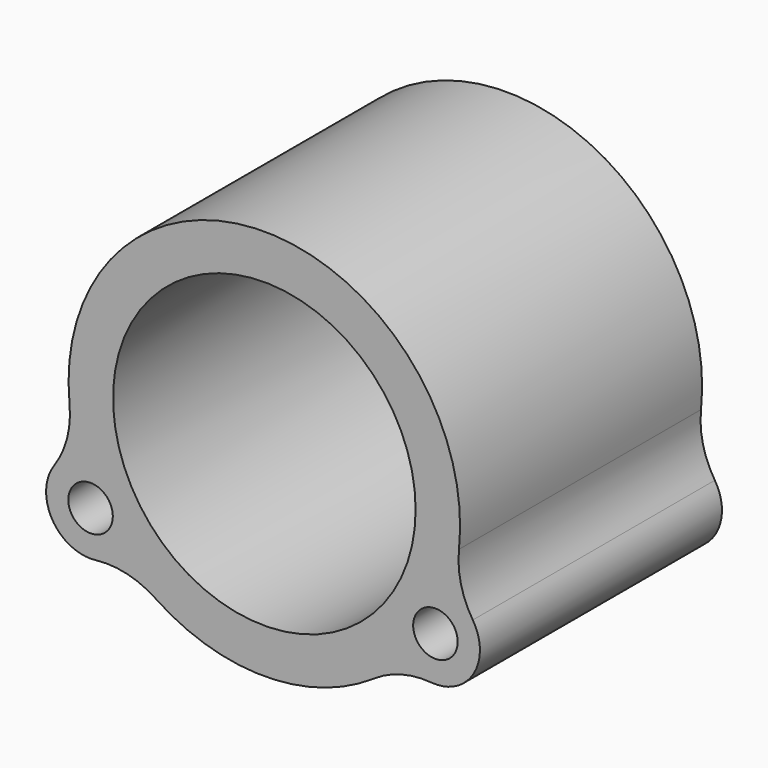
from build123d import *

# Parameters (mm, degrees)
F0_R     = 1.25
F0_R_2   = 8.5
F1_DEPTH = 17


with BuildPart() as f1:
    # F0 (on Front) → F1 (new body)
    with BuildSketch(Plane.XZ):
        with BuildLine():
            ThreePointArc((6.440363, -4.323886), (7.98198, -3.624526), (9.668603, -3.479656))
            ThreePointArc((9.668603, -3.479656), (12.023133, -2.274799), (11.978228, 0.36972))
            ThreePointArc((11.978228, 0.36972), (11.31235, 1.926091), (11.203966, 3.615451))
            ThreePointArc((11.203966, 3.615451), (0.305682, 15.779562), (-10.680641, 3.694908))
            ThreePointArc((-10.680641, 3.694908), (-10.817058, 1.94407), (-11.550448, 0.348394))
            ThreePointArc((-11.550448, 0.348394), (-11.641268, -2.364573), (-9.204734, -3.561128))
            ThreePointArc((-9.204734, -3.561128), (-7.45166, -3.664926), (-5.842607, -4.368482))
            ThreePointArc((-5.842607, -4.368482), (0.305682, -6.220293), (6.440363, -4.323886))
        make_face()
        with Locations((-9.497536, -1.078334)):
            Circle(F0_R, mode=Mode.SUBTRACT)
        with Locations((9.879401, -0.988559)):
            Circle(F0_R, mode=Mode.SUBTRACT)
        with Locations((0.265745, 4.779634)):
            Circle(F0_R_2, mode=Mode.SUBTRACT)
    extrude(amount=F1_DEPTH)


solid = f1.part
